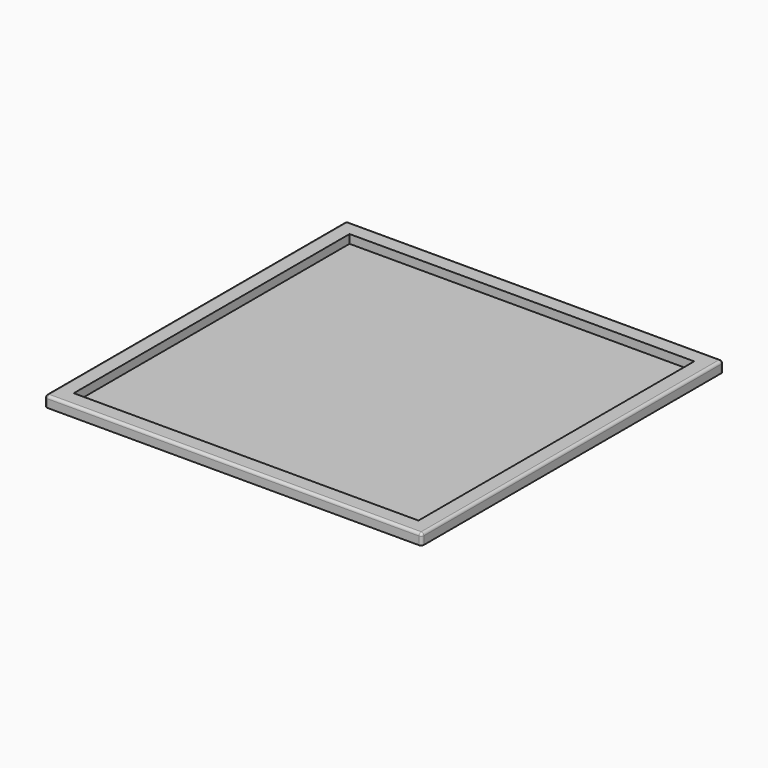
from build123d import *

# Parameters (mm, degrees)
F0_W     = 350
F0_H     = 350
F1_DEPTH = 10
F2_W     = 320
F2_H     = 320
F3_DEPTH = 8
F4_R     = 2.5


with BuildPart() as f1:
    # F0 (on Top) → F1 (new body)
    with BuildSketch(Plane.XY):
        Rectangle(F0_W, F0_H)
    extrude(amount=F1_DEPTH)

    # F2 (on face) → F3 (cut)
    with BuildSketch(Plane.XY.offset(10)):
        Rectangle(F2_W, F2_H)
    extrude(amount=-F3_DEPTH, mode=Mode.SUBTRACT)

    # F4
    f4_edges = [f1.edges().sort_by_distance(p)[0] for p in [
        (175, -175, 5),
        (175, 0, 10),
        (0, -175, 10),
        (-175, -175, 5),
        (-175, 0, 10),
        (0, 175, 10),
        (-175, 175, 5),
        (175, 175, 5),
    ]]
    fillet(f4_edges, radius=F4_R)


solid = f1.part
